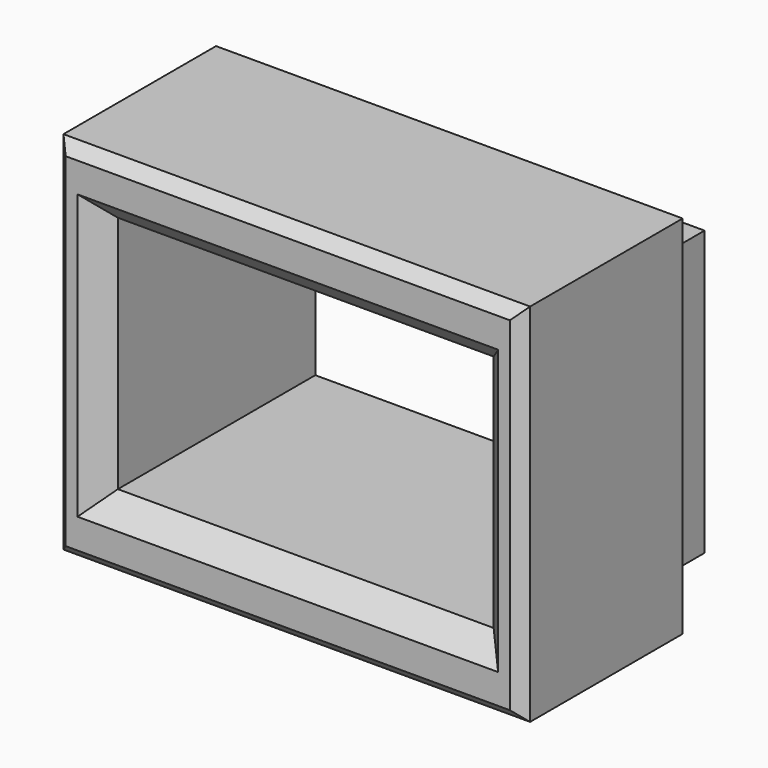
from build123d import *

# Parameters (mm, degrees)
F0_W     = 18.75
F0_H     = 12.65
F0_W_2   = 16.75
F0_H_2   = 10.65
F1_DEPTH = 3
F2_W     = 20.8
F2_H     = 16.3
F2_W_2   = 18.75
F2_H_2   = 12.65
F2_W_3   = 16.75
F2_H_3   = 10.65
F3_DEPTH = 9
F4_SIZE  = 1
F5_SIZE  = 0.5


with BuildPart() as f1:
    # F0 (on Front) → F1 (new body)
    with BuildSketch(Plane.XZ):
        with Locations((-53.0061718459, 27.9083168134)):
            Rectangle(F0_W, F0_H)
        with Locations((-53.0061718459, 27.9083168134)):
            Rectangle(F0_W_2, F0_H_2, mode=Mode.SUBTRACT)
    extrude(amount=F1_DEPTH)

    # F2 (on face) → F3 (join)
    with BuildSketch(Plane.XZ.offset(3)):
        with Locations((-53.0061718459, 27.9083168134)):
            Rectangle(F2_W, F2_H)
        with Locations((-53.0061718459, 27.9083168134)):
            Rectangle(F2_W_2, F2_H_2, mode=Mode.SUBTRACT)
        with Locations((-53.0061718459, 27.9083168134)):
            Rectangle(F2_W_2, F2_H_2)
        with Locations((-53.0061718459, 27.9083168134)):
            Rectangle(F2_W_3, F2_H_3, mode=Mode.SUBTRACT)
    extrude(amount=F3_DEPTH)

    # F4
    f4_edges = [f1.edges().sort_by_distance(p)[0] for p in [
        (-53.006172, -12, 33.233317),
        (-44.631172, -12, 27.908317),
        (-53.006172, -12, 22.583317),
        (-61.381172, -12, 27.908317),
    ]]
    chamfer(f4_edges, length=F4_SIZE)

    # F5
    f5_edges = [f1.edges().sort_by_distance(p)[0] for p in [
        (-53.006172, 0, 34.233317),
        (-62.381172, 0, 27.908317),
        (-53.006172, 0, 21.583317),
        (-43.631172, 0, 27.908317),
        (-53.006172, -12, 36.058317),
        (-63.406172, -12, 27.908317),
        (-53.006172, -12, 19.758317),
        (-42.606172, -12, 27.908317),
    ]]
    chamfer(f5_edges, length=F5_SIZE)


solid = f1.part
